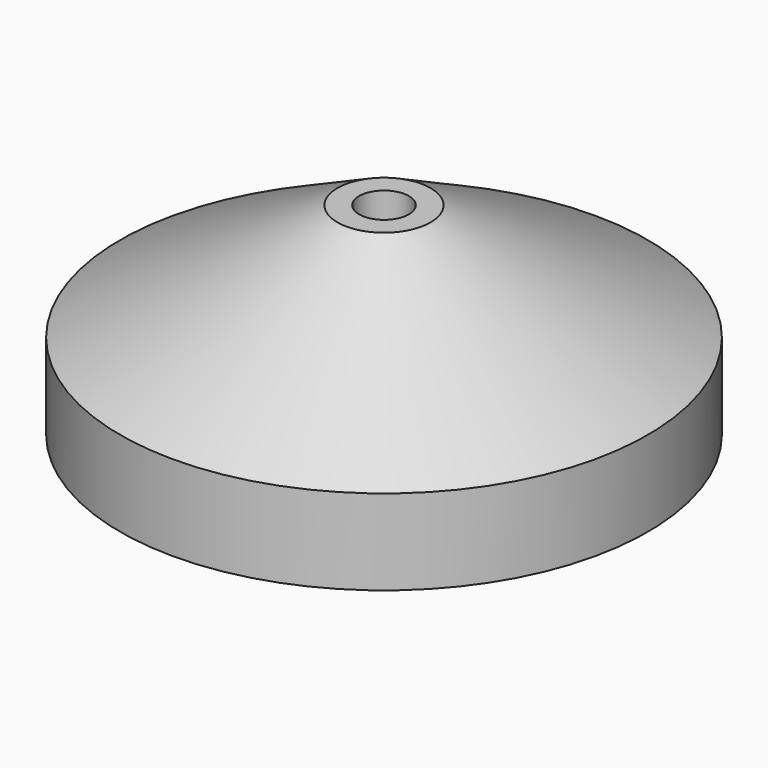
from build123d import *


with BuildPart() as part:
    # Sketch002 → Revolution (revolve)
    with BuildSketch(Plane.YZ):
        Polygon((1.6, 13), (1.6, 9.5), (3, 9.5), (3, 0), (17, 0), (17, 5.5), (3, 13), align=None)
    revolve(axis=Axis((0, 0, 0), (0, 0, 1)))


solid = part.part
